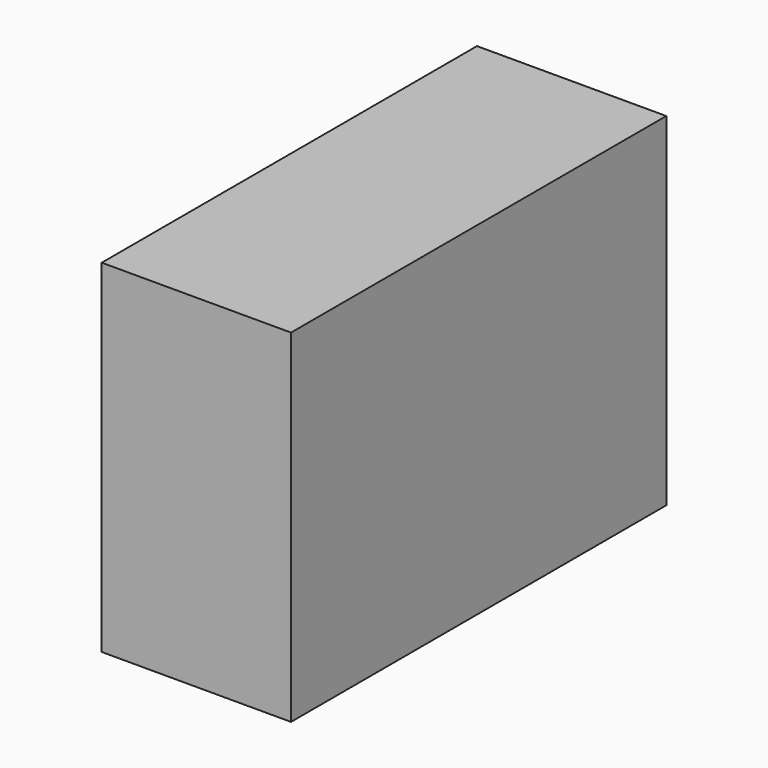
from build123d import *

# Parameters (mm, degrees)
F0_W     = 125.895798
F0_H     = 91.995075
F1_DEPTH = 25.4


with BuildPart() as f1:
    # F0 (on Right) → F1 (new body, symmetric)
    with BuildSketch(Plane.YZ):
        with Locations((-62.947899, -45.997537)):
            Rectangle(F0_W, F0_H)
        with Locations((-62.947899, -45.997537)):
            Rectangle(F0_W, F0_H)
    extrude(amount=F1_DEPTH, both=True)


solid = f1.part
